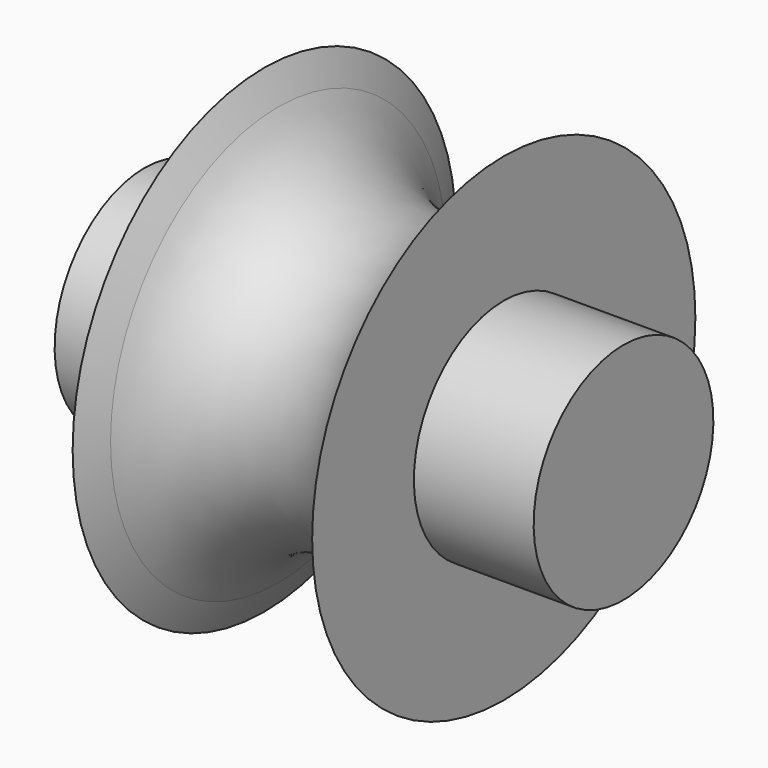
from build123d import *


with BuildPart() as f1:
    # F0 (on Front) → F1 (revolve)
    with BuildSketch(Plane.XZ):
        with BuildLine():
            Line((-25.4, 0), (0, 0))
            Line((0, 0), (25.4, 0))
            Line((25.4, 0), (25.4, 11.9126))
            Line((25.4, 11.9126), (12.7, 11.9126))
            Line((12.7, 11.9126), (12.7, 25.4))
            Line((12.7, 25.4), (11.219473, 22.225))
            ThreePointArc((11.219473, 22.225), (0, 15.077407), (-11.219473, 22.225))
            Line((-11.219473, 22.225), (-12.7, 25.4))
            Line((-12.7, 25.4), (-12.7, 11.9126))
            Line((-12.7, 11.9126), (-25.4, 11.9126))
            Line((-25.4, 11.9126), (-25.4, 0))
        make_face()
    revolve(axis=Axis((1.282742, 0, 0), (1, 0, 0)))


solid = f1.part
